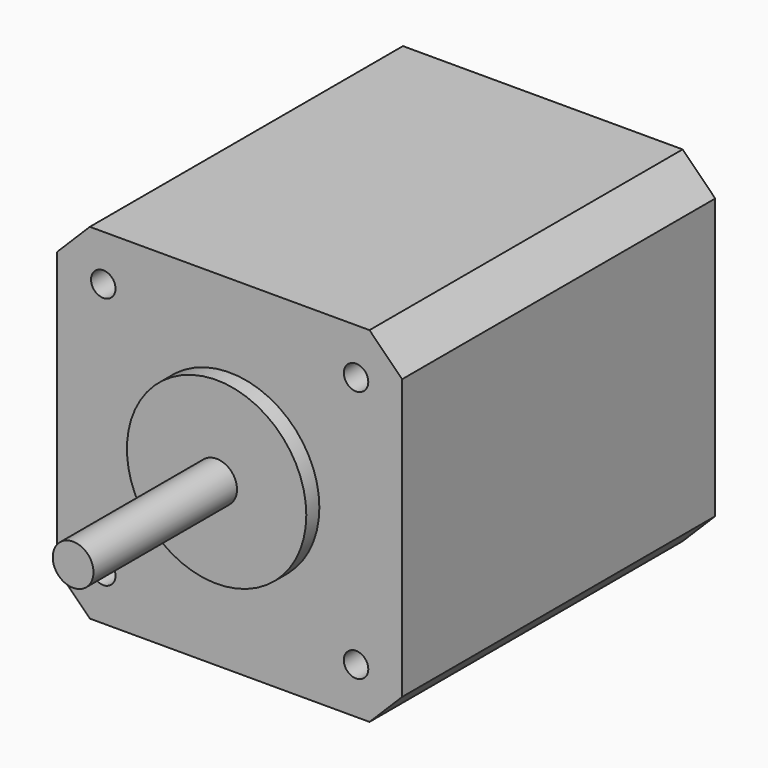
from build123d import *

# Parameters (mm, degrees)
F1_DEPTH = 48
F2_R     = 11
F3_DEPTH = 2
F4_R     = 2.5
F5_DEPTH = 22
F6_R     = 1.5
F7_DEPTH = 10


with BuildPart() as f1:
    # F0 (on Front) → F1 (new body)
    with BuildSketch(Plane.XZ):
        Polygon((17.15, 21.15), (0, 21.15), (-17.15, 21.15), (-21.15, 17.15), (-21.15, 0), (-21.15, -17.15), (-17.15, -21.15), (0, -21.15), (17.15, -21.15), (21.15, -17.15), (21.15, 0), (21.15, 17.15), align=None)
    extrude(amount=F1_DEPTH)

    # F2 (on face) → F3 (join)
    with BuildSketch(Plane.XZ.offset(48)):
        Circle(F2_R)
    extrude(amount=F3_DEPTH)

    # F4 (on face) → F5 (join)
    with BuildSketch(Plane.XZ.offset(50)):
        Circle(F4_R)
    extrude(amount=F5_DEPTH)

    # F6 (on face) → F7 (cut)
    with BuildSketch(Plane.XZ.offset(48)):
        with Locations((-15.5, 15.5)):
            Circle(F6_R)
        with Locations((15.5, 15.5)):
            Circle(F6_R)
        with Locations((-15.5, -15.5)):
            Circle(F6_R)
        with Locations((15.5, -15.5)):
            Circle(F6_R)
    extrude(amount=-F7_DEPTH, mode=Mode.SUBTRACT)


solid = f1.part
